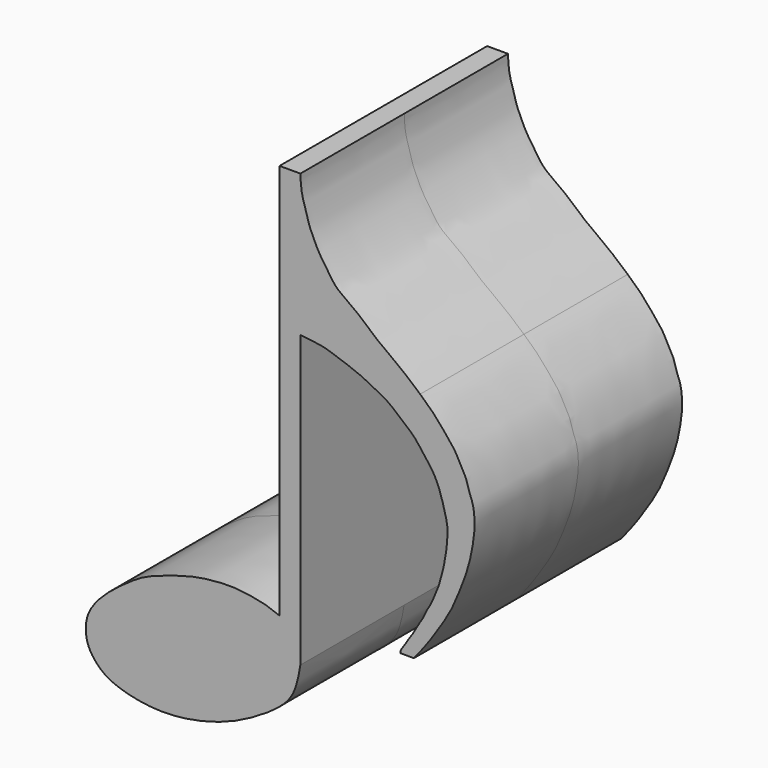
from build123d import *

# Parameters (mm, degrees)
F2_DEPTH      = 12.7
F2_DEPTH_BACK = 12.7
F0_R          = 3.302
F3_DEPTH      = 10.16


with BuildPart() as f2:
    # F1 (on Front) → F2 (new body, two sides)
    with BuildSketch(Plane.XZ) as f2_sk:
        with BuildLine():
            Line((9.7604505718, 8.4198499098), (9.7604505718, 36.8800535798))
            add(Edge.make_bspline(
                [(22.4127957533, 17.5916603297), (22.489821291, 17.7381068608), (22.6617330935, 18.0649580309), (22.9492244437, 18.8061006578), (23.3338441267, 19.6223868071), (23.5081053246, 20.497209608), (23.7862431519, 21.2972712888), (23.8860290465, 22.0492108214), (24.0762344384, 22.9262569625), (24.1158257152, 23.6900848838), (24.1973853507, 24.5608622909), (24.1323975463, 25.3744961879), (23.7805318453, 26.710188546), (23.353195834, 28.1250832432), (22.7268140299, 29.4101865831), (21.8841163553, 30.4183751239), (20.9124444789, 31.8258950506), (19.5867877737, 32.8218662432), (18.519614194, 33.8386424004), (17.171617193, 34.5245310692), (15.9883865147, 35.1749244975), (14.6474410628, 35.7174328398), (13.3973573066, 36.1127830987), (12.2312694073, 36.5698323887), (11.0441384661, 36.7151654266), (10.1946219463, 36.8242847933), (9.7604505718, 36.8800535798)],
                knots=[0, 0, 0, 0, 0.0282726232, 0.063101119, 0.1004992502, 0.1375150871, 0.1732765474, 0.2074631145, 0.2442664606, 0.2788108928, 0.3148207931, 0.3501188038, 0.3958165135, 0.4440511999, 0.4903108494, 0.535141319, 0.5861011217, 0.6365323256, 0.6839829873, 0.7317075247, 0.7773871586, 0.8242840456, 0.8692725102, 0.9127635425, 0.9554151429, 1, 1, 1, 1], degree=3))
            add(Edge.make_bspline(
                [(19.572148728, 12.6239284849), (19.5609635311, 12.6869721401), (19.5069474209, 12.8550854428), (20.0551850253, 13.5453818769), (20.2194848186, 13.901293997), (20.6704597949, 14.5153636317), (20.9920651047, 15.0737923305), (21.3515004541, 15.7290478203), (21.7581492689, 16.3090812174), (22.0880168591, 17.0399911862), (22.260665161, 17.3796003205), (22.4127957533, 17.5916603297)],
                knots=[0, 0, 0, 0, 0.0644044311, 0.1921240331, 0.2863865, 0.4059171688, 0.5214307385, 0.6419521847, 0.7619127583, 0.8854890331, 1, 1, 1, 1], degree=3))
            Line((19.572148728, 12.6239284849), (20.8782590926, 12.6239284849))
            add(Edge.make_bspline(
                [(21.4926414192, 35.5776213109), (21.6588002826, 35.4299870146), (22.0432292299, 35.0884169294), (22.9506247152, 34.2338980383), (23.9192086411, 33.0388956066), (24.9488380501, 31.8484065533), (25.4063252244, 30.7613970809), (26.0137273639, 29.8804360599), (26.1980134273, 28.8558940704), (26.7128560857, 27.8107353372), (26.8898808357, 26.1218484391), (26.6608985717, 24.171055357), (26.196431493, 22.0336665583), (25.4696923642, 20.1730932334), (24.7431297304, 18.3115595442), (23.7893190894, 16.6867593467), (22.9151920391, 15.3139197013), (22.0024307163, 14.0733082601), (21.3014958191, 13.1048864092), (20.8782590926, 12.6239284849)],
                knots=[0, 0, 0, 0, 0.0404101675, 0.0935041556, 0.1538275771, 0.2138290636, 0.2656357094, 0.3144677178, 0.3625290933, 0.4137318704, 0.4753745262, 0.5429937059, 0.6137628324, 0.6815803791, 0.7492294051, 0.8149794066, 0.8757627119, 0.9349225449, 1, 1, 1, 1], degree=3))
            add(Edge.make_bspline(
                [(9.7661875188, 50.7742352784), (9.8000292656, 50.6015610464), (9.7800773898, 50.1623249565), (9.847501114, 49.8055928638), (9.8632563026, 49.346104023), (9.9776550945, 48.885739217), (10.0812811834, 48.4091124172), (10.3465072733, 47.6488078928), (10.4807080708, 47.1222042577), (10.668495829, 46.4664796729), (10.9151241629, 45.9905632432), (11.4986814881, 44.5707642552), (12.4126589846, 43.4082745592), (13.0941844967, 42.1937386364), (14.2345708994, 41.3991294234), (15.8077253027, 40.2564880465), (17.241482497, 38.8959447691), (18.4035388963, 38.0793224694), (20.0828942132, 36.8586353013), (20.986915322, 35.9420028464), (21.4926414192, 35.5776213109)],
                knots=[0, 0, 0, 0, 0.0425397227, 0.0762846942, 0.112889893, 0.1503560763, 0.1890930483, 0.2378589411, 0.2794249938, 0.3231920841, 0.3636718095, 0.4305382554, 0.4987725364, 0.5621760047, 0.6260388576, 0.7031110984, 0.7799121778, 0.8455201032, 0.9238859265, 1, 1, 1, 1], degree=3))
            Line((9.7661875188, 50.7742352784), (7.7261179686, 50.7742352784))
            Line((7.7261179686, 50.7742352784), (7.7261179686, 12.0083875954))
            add(Edge.make_bspline(
                [(7.7261179686, 12.0083875954), (7.2533501662, 12.1981432861), (6.2851731943, 12.586742275), (4.578180622, 12.847561735), (2.9943210571, 13.0592530067), (0.9577459587, 12.8977085785), (-0.8715475802, 12.6631195757), (-4.9719166989, 11.4186013651), (-6.7886437665, 10.2972726308), (-9.0212365044, 8.6739430509), (-10.553640047, 7.0713534086), (-11.3125380824, 5.5260809136), (-11.2428122599, 3.4810378464), (-10.1527709089, 1.9321163314), (-8.5566827985, 0.6986695944), (-3.7504495581, -0.4083808406), (1.6379732036, 0.6822856726), (4.7751988749, 2.1689167673), (7.0110204291, 3.5281612102), (9.2465807514, 5.3813113947), (9.5864496903, 7.3909738033), (9.7604505718, 8.4198499098)],
                knots=[0, 0, 0, 0, 0.0413645984, 0.0847101926, 0.1271048736, 0.1733468151, 0.2198558828, 0.2876740527, 0.3377289235, 0.3921919382, 0.441686462, 0.4845116109, 0.5307535571, 0.5751348481, 0.6211049722, 0.6938772186, 0.7725829658, 0.8340125917, 0.8874033341, 0.9423544876, 1, 1, 1, 1], degree=3))
        make_face()
    extrude(amount=F2_DEPTH)
    extrude(f2_sk.sketch, amount=-F2_DEPTH_BACK)

    # F0 (on Top) → F3 (cut)
    with BuildSketch(Plane.XY):
        Circle(F0_R)
    extrude(amount=F3_DEPTH, mode=Mode.SUBTRACT)


solid = f2.part
